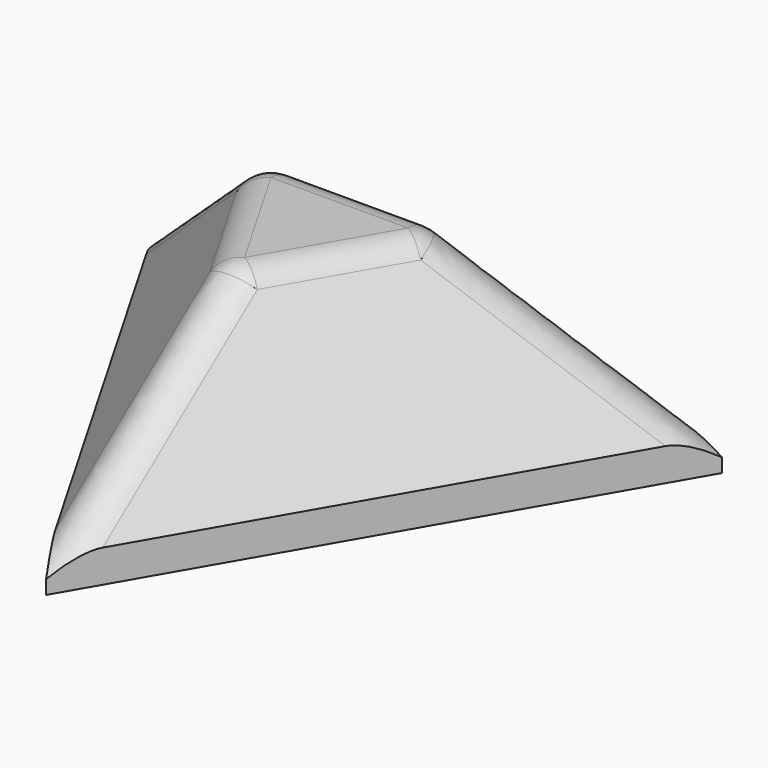
from build123d import *

# Parameters (mm, degrees)
PAD002_DEPTH    = 2
SKETCH016_R     = 2.5
POCKET001_DEPTH = 4
FILLET001_R     = 2


with BuildPart() as part:
    # Sketch013 → Pad002 (new body)
    with BuildSketch(Plane.XY):
        Polygon((17.320508, 10), (-17.320508, 10), (0, -20), align=None)
    extrude(amount=PAD002_DEPTH)

    # Sketch015 (on Face5 of Pad002) → AdditiveLoft004 section 0
    with BuildSketch(Plane.XY.offset(2)):
        Polygon((17.320508, 10), (-17.320508, 10), (0, -20), align=None)
    # Sketch014 (on Face5 of Pad002) → AdditiveLoft004 section 1
    with BuildSketch(Plane.XY.offset(12)):
        Polygon((0, -7), (6.062178, 3.5), (-6.062178, 3.5), align=None)
    loft()

    # Sketch016 (on Face4 of AdditiveLoft004) → Pocket001 (cut)
    with BuildSketch(Plane(origin=(0, 0, 0), x_dir=(1, 0, 0), z_dir=(0, 0, -1))):
        Circle(SKETCH016_R)
    extrude(amount=-POCKET001_DEPTH, mode=Mode.SUBTRACT)

    # Fillet001
    fillet001_edges = [part.edges().sort_by_distance(p)[0] for p in [
        (11.691343, 6.75, 7),
        (0, 3.5, 12),
        (-3.031089, -1.75, 12),
        (-11.691343, 6.75, 7),
        (3.031089, -1.75, 12),
        (0, -13.5, 7),
    ]]
    fillet(fillet001_edges, radius=FILLET001_R)


solid = part.part
